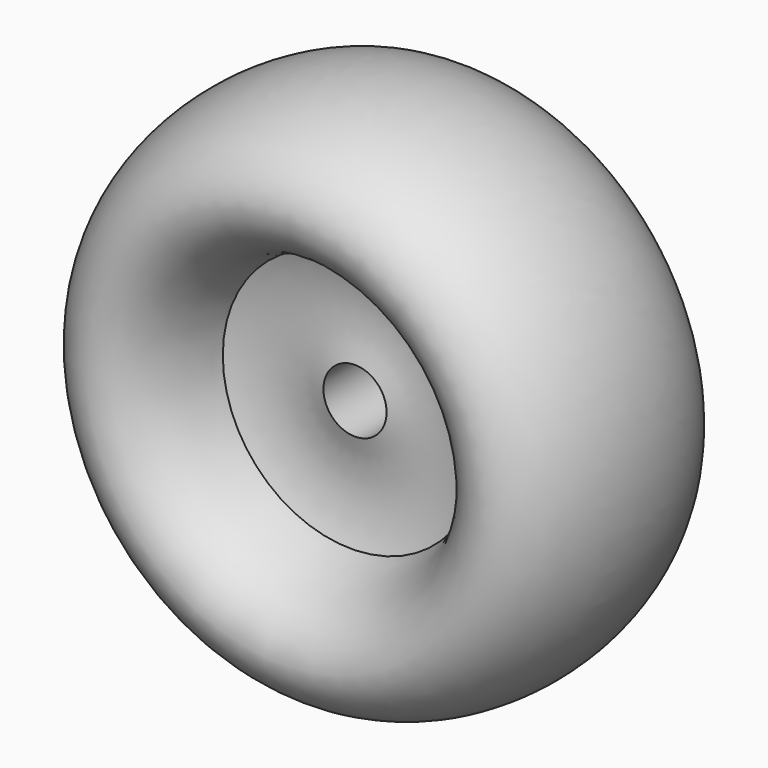
from build123d import *


with BuildPart() as f1:
    # F0 (on Top) → F1 (revolve)
    with BuildSketch(Plane.XY):
        with BuildLine():
            ThreePointArc((42.1506848638, 22.1999993412), (12.6699067034, 17.8795914157), (-16.3641043084, 24.5734998521))
            add(Edge.make_bspline(
                [(-16.3641043084, 24.5734998521), (-35.3407058673, 122.8689171525), (-82.7827572397, 61.4344585763), (-130.2248086121, 0), (-82.7827572397, -61.4344585763), (-35.3407058673, -122.8689171525), (-16.3641043084, -24.5734998521)],
                knots=[1.89915188, 1.89915188, 1.89915188, 3.7746432803, 3.7746432803, 5.6501346805, 5.6501346805, 7.5256260807, 7.5256260807, 7.5256260807], degree=2, weights=[1, 0.591607003, 1, 0.591607003, 1, 0.591607003, 1]))
            ThreePointArc((-16.3641043084, -24.5734998521), (12.6361339364, -17.6989852085), (42.1506848638, -21.8419374637))
            Line((42.1506848638, -21.8419374637), (42.1506848638, 22.1999993412))
        make_face()
    revolve(axis=Axis((61.2006848638, -31.7590479807, 0), (0, -1, 0)))


solid = f1.part
